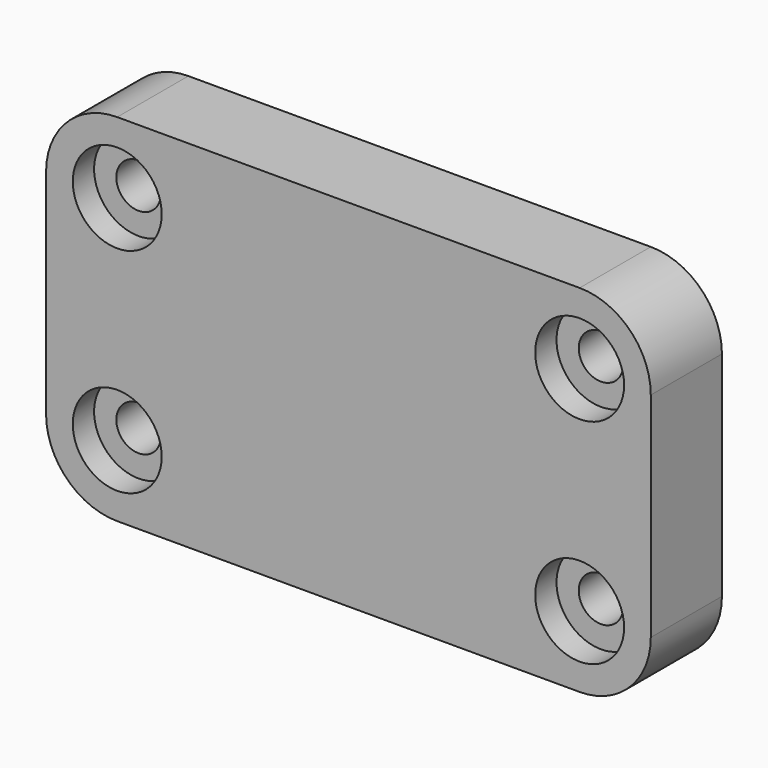
from build123d import *

# Parameters (mm, degrees)
F0_R     = 5
F0_R_2   = 2.5
F0_W     = 28
F0_H     = 8
F1_DEPTH = 10
F2_DEPTH = 3


with BuildPart() as f1:
    # F0 (on Front) → F1 (new body)
    with BuildSketch(Plane.XZ):
        with BuildLine():
            Line((-14, 20), (-26, 20))
            ThreePointArc((-26, 20), (-31.656854, 17.656854), (-34, 12))
            Line((-34, 12), (-34, -12))
            ThreePointArc((-34, -12), (-31.656854, -17.656854), (-26, -20))
            Line((-26, -20), (-14, -20))
            Line((-14, -20), (-14, -12))
            Line((-14, -12), (14, -12))
            Line((14, -12), (14, -20))
            Line((14, -20), (26, -20))
            ThreePointArc((26, -20), (31.656854, -17.656854), (34, -12))
            Line((34, -12), (34, 12))
            ThreePointArc((34, 12), (31.656854, 17.656854), (26, 20))
            Line((26, 20), (14, 20))
            Line((14, 20), (14, 12))
            Line((14, 12), (-14, 12))
            Line((-14, 12), (-14, 20))
        make_face()
        with Locations((-26, -12)):
            Circle(F0_R, mode=Mode.SUBTRACT)
        with Locations((26, -12)):
            Circle(F0_R, mode=Mode.SUBTRACT)
        with Locations((-26, 12)):
            Circle(F0_R, mode=Mode.SUBTRACT)
        with Locations((26, 12)):
            Circle(F0_R, mode=Mode.SUBTRACT)
        with Locations((-26, 12)):
            Circle(F0_R)
        with Locations((-26, 12)):
            Circle(F0_R_2, mode=Mode.SUBTRACT)
        with Locations((26, 12)):
            Circle(F0_R)
        with Locations((26, 12)):
            Circle(F0_R_2, mode=Mode.SUBTRACT)
        with Locations((26, -12)):
            Circle(F0_R)
        with Locations((26, -12)):
            Circle(F0_R_2, mode=Mode.SUBTRACT)
        with Locations((-26, -12)):
            Circle(F0_R)
        with Locations((-26, -12)):
            Circle(F0_R_2, mode=Mode.SUBTRACT)
        with Locations((0, -16)):
            Rectangle(F0_W, F0_H)
        with Locations((0, 16)):
            Rectangle(F0_W, F0_H)
    extrude(amount=-F1_DEPTH)

    # F0 (on Front) → F2 (cut)
    with BuildSketch(Plane.XZ):
        with Locations((-26, 12)):
            Circle(F0_R)
        with Locations((-26, 12)):
            Circle(F0_R_2, mode=Mode.SUBTRACT)
        with Locations((26, 12)):
            Circle(F0_R)
        with Locations((26, 12)):
            Circle(F0_R_2, mode=Mode.SUBTRACT)
        with Locations((26, -12)):
            Circle(F0_R)
        with Locations((26, -12)):
            Circle(F0_R_2, mode=Mode.SUBTRACT)
        with Locations((-26, -12)):
            Circle(F0_R)
        with Locations((-26, -12)):
            Circle(F0_R_2, mode=Mode.SUBTRACT)
    extrude(amount=-F2_DEPTH, mode=Mode.SUBTRACT)


solid = f1.part
